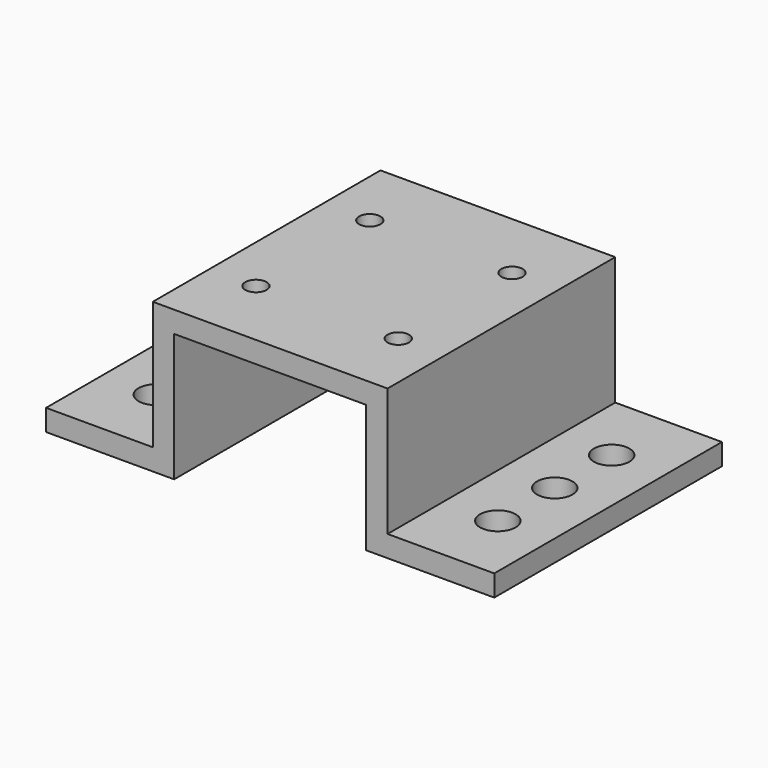
from build123d import *

# Parameters (mm, degrees)
F1_DEPTH = 40
F2_R     = 1.5
F3_DEPTH = 25
F4_R     = 2.5
F5_DEPTH = 25
F6_R     = 2.5
F7_DEPTH = 25


with BuildPart() as f1:
    # F0 (on Front) → F1 (new body)
    with BuildSketch(Plane.XZ):
        Polygon((-13.5, 0), (0, 0), (13.5, 0), (13.5, -18), (31.5, -18), (31.5, -15), (16.5, -15), (16.5, 3), (0, 3), (-16.5, 3), (-16.5, -15), (-31.5, -15), (-31.5, -18), (-13.5, -18), align=None)
    extrude(amount=F1_DEPTH)

    # F2 (on face) → F3 (cut)
    with BuildSketch(Plane.XY.offset(3)):
        with Locations((-10, -10)):
            Circle(F2_R)
        with Locations((10, -10)):
            Circle(F2_R)
        with Locations((10, -30)):
            Circle(F2_R)
        with Locations((-10, -30)):
            Circle(F2_R)
    extrude(amount=-F3_DEPTH, mode=Mode.SUBTRACT)

    # F4 (on face) → F5 (cut)
    with BuildSketch(Plane.XY.offset(-15)):
        with Locations((-24, -30)):
            Circle(F4_R)
        with Locations((-24, -20)):
            Circle(F4_R)
        with Locations((-24, -10)):
            Circle(F4_R)
    extrude(amount=-F5_DEPTH, mode=Mode.SUBTRACT)

    # F6 (on face) → F7 (cut)
    with BuildSketch(Plane.XY.offset(-15)):
        with Locations((24, -30)):
            Circle(F6_R)
        with Locations((24, -20)):
            Circle(F6_R)
        with Locations((24, -10)):
            Circle(F6_R)
    extrude(amount=-F7_DEPTH, mode=Mode.SUBTRACT)


solid = f1.part
